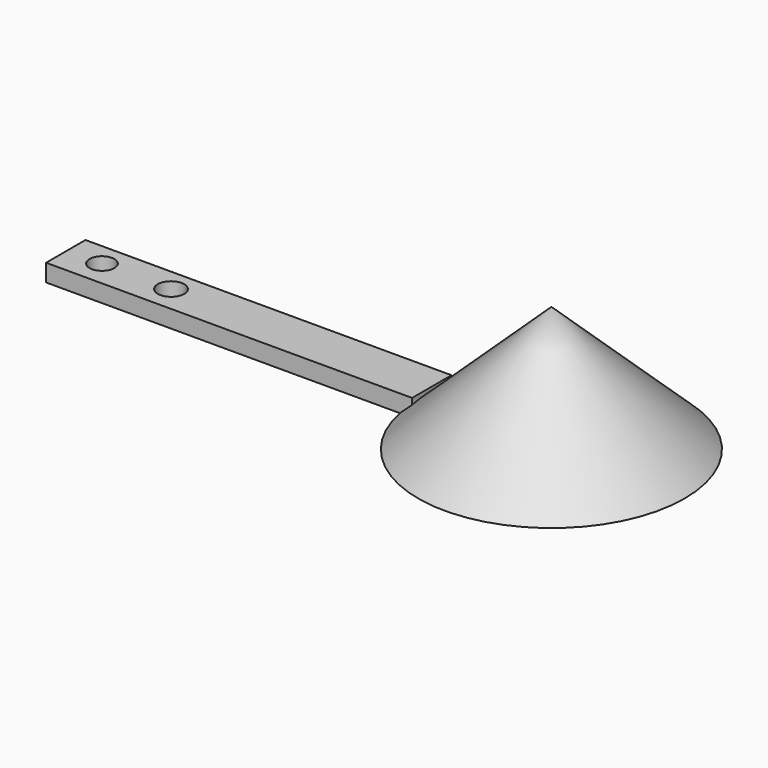
from build123d import *

# Parameters (mm, degrees)
F2_W     = 84.214361
F2_H     = 11.32601
F2_R     = 2.855499
F2_R_2   = 3.042047
F3_DEPTH = 4


with BuildPart() as f1:
    # F0 (on Front) → F1 (revolve)
    with BuildSketch(Plane.XZ):
        Polygon((0, 28.85901), (0, 26.132483), (27.431142, 0), (30.653402, 0), align=None)
    revolve(axis=Axis((0, 0, 13.066242), (0, 0, -1)))

    # F2 (on Top) → F3 (join)
    with BuildSketch(Plane.XY):
        with Locations((-69.342299, -0.36225)):
            Rectangle(F2_W, F2_H)
        with Locations((-103.411667, 0)):
            Circle(F2_R, mode=Mode.SUBTRACT)
        with Locations((-87.518722, 0)):
            Circle(F2_R_2, mode=Mode.SUBTRACT)
    extrude(amount=F3_DEPTH)


solid = f1.part
